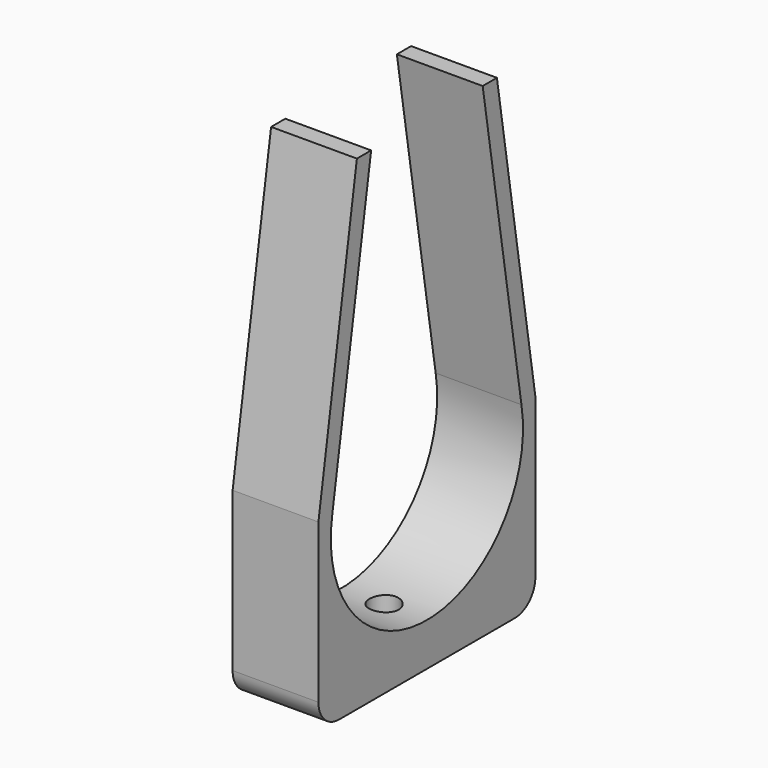
from build123d import *

# Parameters (mm, degrees)
PAD_DEPTH    = 10
FILLET_R     = 3
SKETCH001_R  = 1.7
POCKET_DEPTH = 56.501


with BuildPart() as part:
    # Sketch → Pad (new body)
    with BuildSketch(Plane.YZ):
        with BuildLine():
            ThreePointArc((-13.774977, 2.5), (0, -14), (13.774977, 2.5))
            Line((8.124038, 37.5), (13.774977, 2.5))
            Line((10.198039, 37.5), (8.124038, 37.5))
            Line((10.198039, 37.5), (15.803481, 2.5))
            Line((15.803481, 2.5), (15.803481, -19))
            Line((-15.803481, -19), (15.803481, -19))
            Line((-15.803481, 2.5), (-15.803481, -19))
            Line((-15.803481, 2.5), (-10.198039, 37.5))
            Line((-8.124038, 37.5), (-10.198039, 37.5))
            Line((-13.774977, 2.5), (-8.124038, 37.5))
        make_face()
    extrude(amount=PAD_DEPTH)

    # Fillet
    fillet_edges = [part.edges().sort_by_distance(p)[0] for p in [
        (5, -15.803481, -19),
        (5, 15.803481, -19),
    ]]
    fillet(fillet_edges, radius=FILLET_R)

    # Sketch001 (on Face6 of Fillet) → Pocket (cut, through all)
    with BuildSketch(Plane.YX.offset(19)):
        with Locations((0, 5)):
            Circle(SKETCH001_R)
    extrude(amount=-POCKET_DEPTH, mode=Mode.SUBTRACT)


solid = part.part
